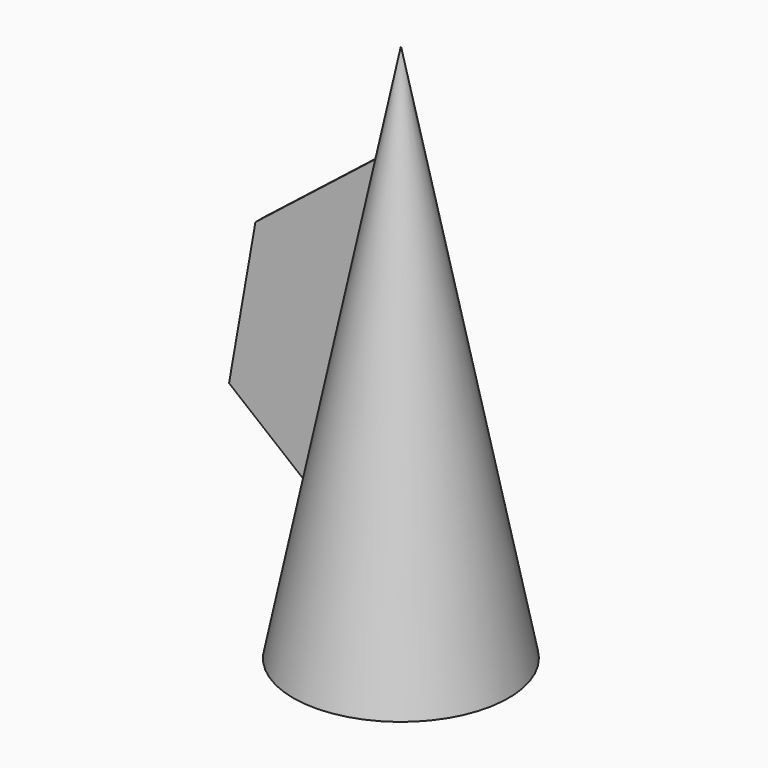
from build123d import *

# Parameters (mm, degrees)
F3_DEPTH      = 0.762
F3_DEPTH_BACK = 0.762


with BuildPart() as f1:
    # F0 (on Front) → F1 (revolve)
    with BuildSketch(Plane.XZ):
        Polygon((-15.24, 0), (0, 0), (0, 76.2), align=None)
    revolve(axis=Axis((0, 0, 38.1), (0, 0, -1)))

    # F2 (on Front) → F3 (join, two sides)
    with BuildSketch(Plane.XZ) as f3_sk:
        Polygon((0, 7.668738), (0, 63.807122), (-19.965462, 48.10552), (-23.695679, 26.840206), align=None)
    extrude(amount=F3_DEPTH)
    extrude(f3_sk.sketch, amount=-F3_DEPTH_BACK)


solid = f1.part
